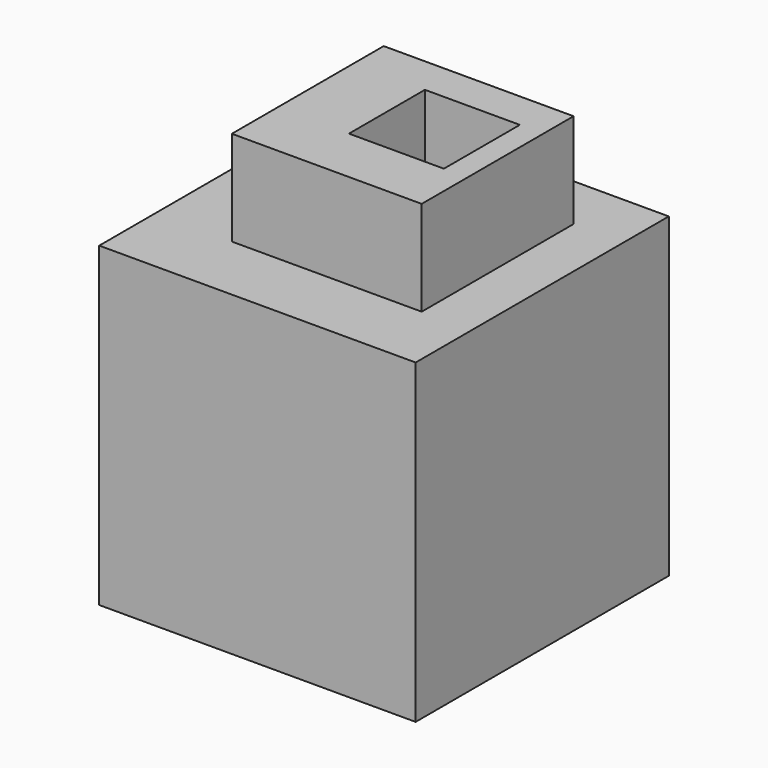
from build123d import *

# Parameters (mm, degrees)
F0_W     = 50
F0_H     = 50
F1_DEPTH = 50
F2_W     = 30
F2_H     = 30
F2_W_2   = 15
F2_H_2   = 15
F3_DEPTH = 15
F4_DEPTH = 15


with BuildPart() as f1:
    # F0 (on Top) → F1 (new body)
    with BuildSketch(Plane.XY):
        with Locations((-25, 25)):
            Rectangle(F0_W, F0_H)
    extrude(amount=F1_DEPTH)

    # F2 (on face) → F3 (join)
    with BuildSketch(Plane.XY.offset(50)):
        with Locations((-22.896898, 26.06651)):
            Rectangle(F2_W, F2_H)
        with Locations((-19.131815, 27.618613)):
            Rectangle(F2_W_2, F2_H_2, mode=Mode.SUBTRACT)
    extrude(amount=F3_DEPTH)

    # F2 (on face) → F4 (join)
    with BuildSketch(Plane.XY.offset(50)):
        with Locations((-22.896898, 26.06651)):
            Rectangle(F2_W, F2_H)
        with Locations((-19.131815, 27.618613)):
            Rectangle(F2_W_2, F2_H_2, mode=Mode.SUBTRACT)
    extrude(amount=F4_DEPTH)


solid = f1.part
